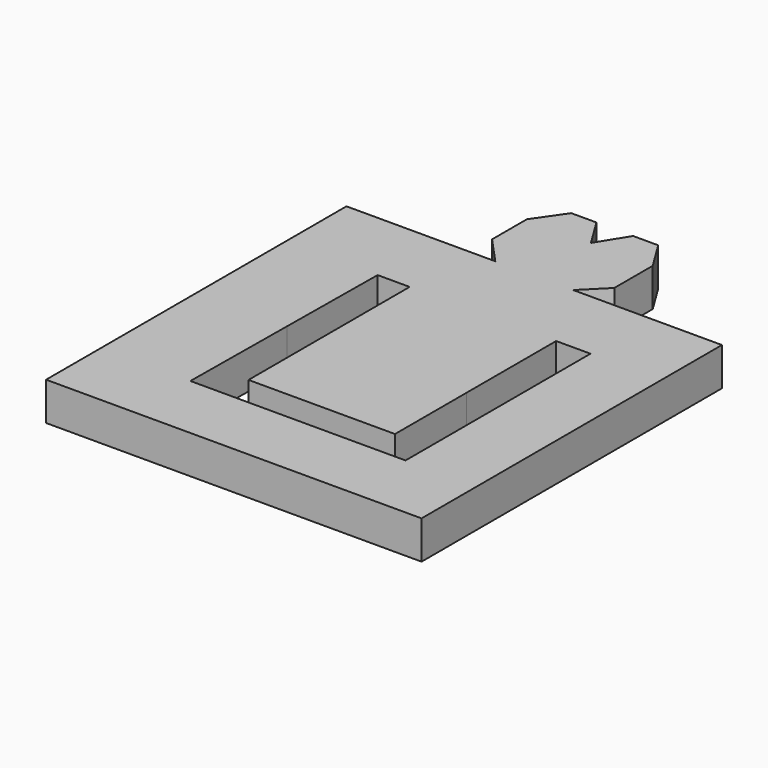
from build123d import *

# Parameters (mm, degrees)
F0_W     = 8.527998
F0_H     = 11.893602
F0_W_2   = 10.979201
F1_DEPTH = 5.08


with BuildPart() as f1:
    # F0 (on Top) → F1 (new body)
    with BuildSketch(Plane.XY):
        Polygon((-6.096, 20.878801), (-2.7432, 17.234001), (2.431998, 17.234001), (7.62, 17.234001), (10.667999, 20.2692), (10.667999, 23.012402), (10.667999, 26.670001), (8.2296, 30.632401), (4.876801, 30.632401), (2.438402, 26.670001), (0, 30.632401), (-3.3528, 30.632401), (-6.096, 26.670001), (-6.096, 23.622001), align=None)
        Polygon((7.62, 17.234001), (2.431998, 17.234001), (2.431998, -7.765999), (13.411199, -7.765999), (13.411199, 7.1628), (17.983202, 7.1628), (17.983202, -7.765999), (27.431998, -7.765999), (27.431998, 17.234001), align=None)
        Polygon((2.431998, -23.622001), (2.431998, -32.765999), (27.431998, -32.765999), (27.431998, -7.765999), (17.983202, -7.765999), (17.983202, -23.622001), align=None)
        Polygon((-10.51101, -7.765999), (-22.568002, -7.765999), (-22.568002, -32.765999), (2.431998, -32.765999), (2.431998, -23.622001), (-10.668, -23.622001), align=None)
        Polygon((-2.7432, 17.234001), (-22.568002, 17.234001), (-22.568002, -7.765999), (-10.51101, -7.765999), (-10.363201, 7.1628), (-6.096, 7.1628), (-6.096, -7.765999), (2.431998, -7.765999), (2.431998, 17.234001), align=None)
        with Locations((-1.832001, -13.7128)):
            Rectangle(F0_W, F0_H)
        with Locations((7.921598, -13.7128)):
            Rectangle(F0_W_2, F0_H)
    extrude(amount=F1_DEPTH)


solid = f1.part
